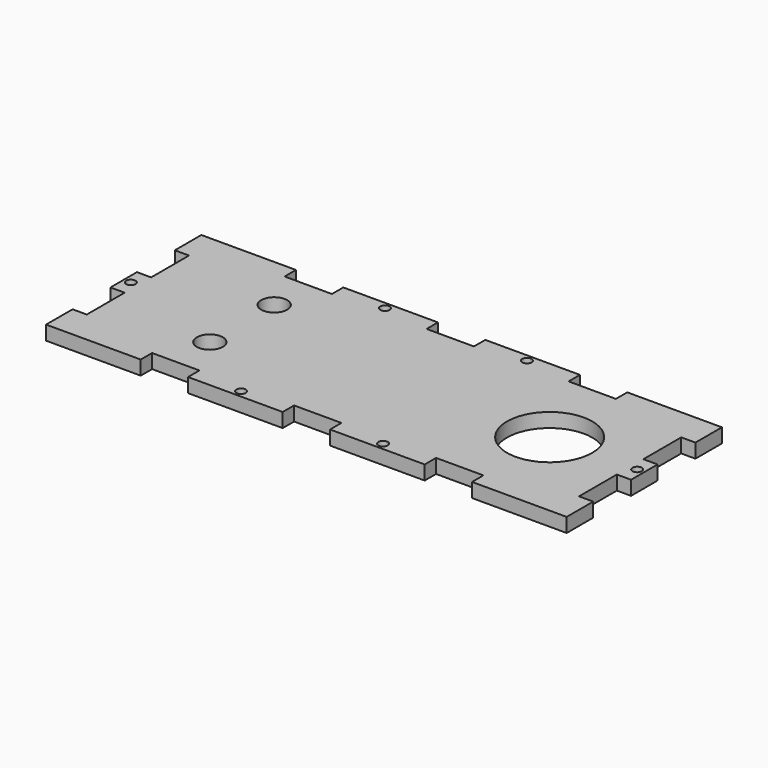
from build123d import *

# Parameters (mm, degrees)
F0_R     = 1
F0_R_2   = 2.75
F0_R_3   = 9
F1_DEPTH = 3


with BuildPart() as f1:
    # F0 (on Top) → F1 (new body)
    with BuildSketch(Plane.XY):
        Polygon((0, 7), (0, 0), (20, 0), (20, 3), (30, 3), (30, 0), (50, 0), (50, 3), (55, 3), (60, 3), (60, 0), (80, 0), (80, 3), (90, 3), (90, 0), (110, 0), (110, 7), (107, 7), (107, 17), (110, 17), (110, 24), (107, 24), (107, 34), (110, 34), (110, 41), (90, 41), (90, 38), (80, 38), (80, 41), (60, 41), (60, 38), (55, 38), (50, 38), (50, 41), (30, 41), (30, 38), (20, 38), (20, 41), (0, 41), (0, 34), (3, 34), (3, 24), (0, 24), (0, 17), (3, 17), (3, 7), align=None)
        with Locations((40, 1.5)):
            Circle(F0_R, mode=Mode.SUBTRACT)
        with Locations((25, 12)):
            Circle(F0_R_2, mode=Mode.SUBTRACT)
        with Locations((70, 1.5)):
            Circle(F0_R, mode=Mode.SUBTRACT)
        with Locations((1.5, 20.5)):
            Circle(F0_R, mode=Mode.SUBTRACT)
        with Locations((25, 29)):
            Circle(F0_R_2, mode=Mode.SUBTRACT)
        with Locations((40, 39.5)):
            Circle(F0_R, mode=Mode.SUBTRACT)
        with Locations((90, 20.5)):
            Circle(F0_R_3, mode=Mode.SUBTRACT)
        with Locations((108.5, 20.5)):
            Circle(F0_R, mode=Mode.SUBTRACT)
        with Locations((70, 39.5)):
            Circle(F0_R, mode=Mode.SUBTRACT)
    extrude(amount=F1_DEPTH)


solid = f1.part
